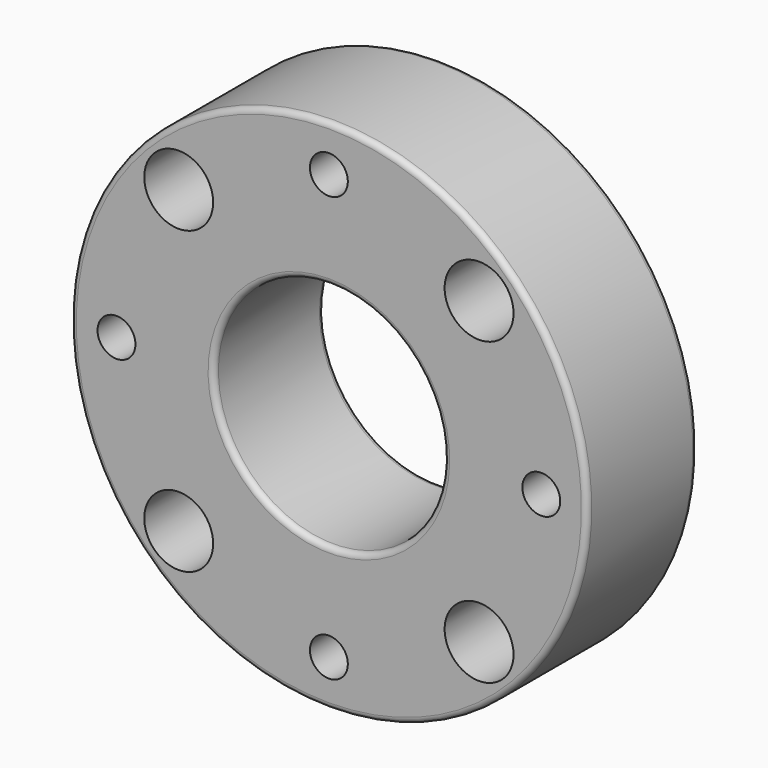
from build123d import *

# Parameters (mm, degrees)
F0_W           = 12
F0_H           = 12.475
F3_D           = 6
F4_D           = 3.3
F4_CBORE_D     = 6.5
F4_CBORE_DEPTH = 5
F5_R           = 0.5


with BuildPart() as f1:
    # F0 (on Right) → F1 (revolve)
    with BuildSketch(Plane.YZ):
        with Locations((0, 16.2625)):
            Rectangle(F0_W, F0_H)
    revolve(axis=Axis((0, 1.880541, 0), (0, 1, 0)))

    # F3 (through all)
    with Locations(Plane(origin=(0, 6, 0), x_dir=(-1, 0, 0), z_dir=(0, 1, 0))):
        with Locations((-13.081475, 13.081475), (13.081475, 13.081475), (-13.081475, -13.081475), (13.081475, -13.081475)):
            Hole(F3_D / 2)

    # F4 (through all)
    with Locations(Plane(origin=(0, 6, 0), x_dir=(-1, 0, 0), z_dir=(0, 1, 0))):
        with Locations((-18.5, 0), (0, -18.5), (18.5, 0), (0, 18.5)):
            CounterBoreHole(F4_D / 2, F4_CBORE_D / 2, F4_CBORE_DEPTH)

    # F5
    f5_edges = [f1.edges().sort_by_distance(p)[0] for p in [
        (0, 6, -22.5),
        (0, -6, -22.5),
        (0, 6, -10.025),
        (0, -6, -10.025),
        (0, 0, 10.025),
    ]]
    fillet(f5_edges, radius=F5_R)


solid = f1.part
